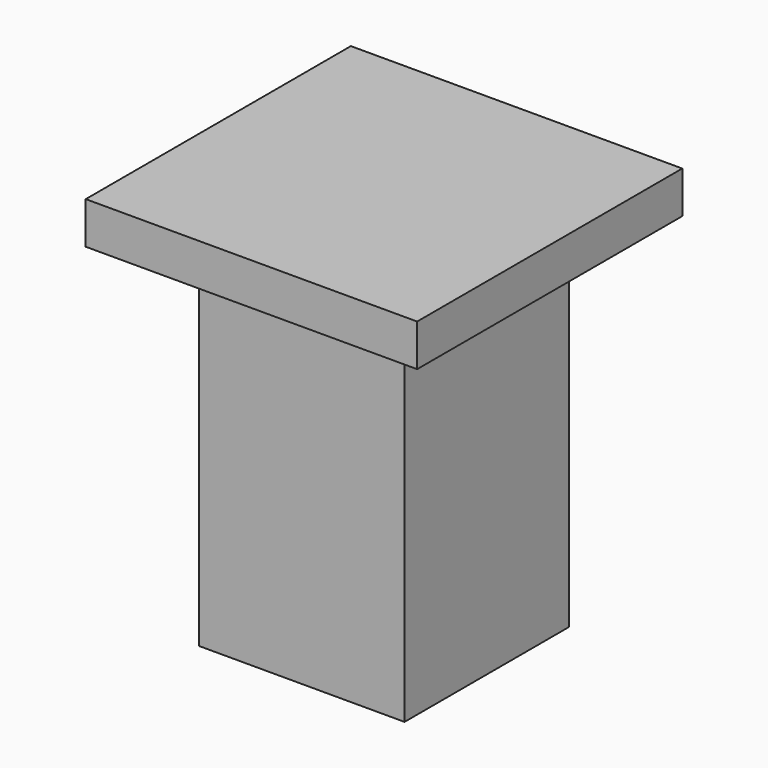
from build123d import *

# Parameters (mm, degrees)
F0_W     = 79
F0_H     = 79
F1_DEPTH = 10
F2_W     = 49
F2_H     = 49
F3_DEPTH = 95


with BuildPart() as f1:
    # F0 (on Top) → F1 (new body)
    with BuildSketch(Plane.XY):
        Rectangle(F0_W, F0_H)
    extrude(amount=F1_DEPTH)

    # F2 (on face) → F3 (join)
    with BuildSketch(Plane.XY.offset(10)):
        Rectangle(F2_W, F2_H)
    extrude(amount=-F3_DEPTH)


solid = f1.part
